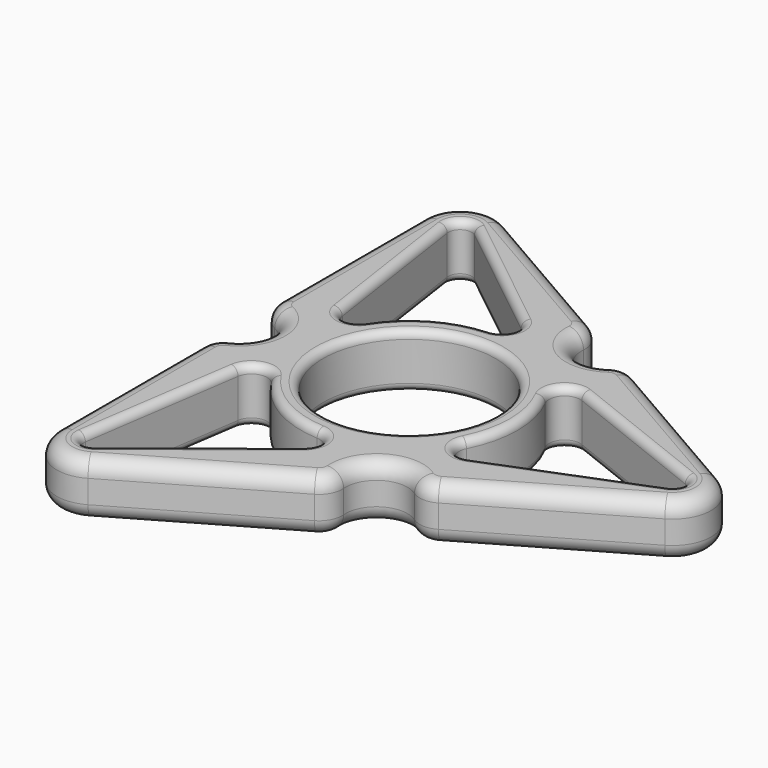
from build123d import *

# Parameters (mm, degrees)
F1_DEPTH = 7
F2_R     = 11.15
F3_DEPTH = 7.001
F6_DEPTH = 7.001
F7_R     = 2
F8_R     = 1
F9_DEPTH = 7.001
F10_R    = 1
F11_R    = 1


with BuildPart() as f1:
    # F0 (on Top) → F1 (new body)
    with BuildSketch(Plane.XY):
        with BuildLine():
            Line((-22, 29.4448637287), (-22, -29.4448637287))
            ThreePointArc((-22, -29.4448637287), (-19.5, -33.7749907476), (-14.5, -33.7749907476))
            Line((-14.5, -33.7749907476), (36.5, -4.3301270189))
            ThreePointArc((36.5, -4.3301270189), (39, 0), (36.5, 4.3301270189))
            Line((36.5, 4.3301270189), (-14.5, 33.7749907476))
            ThreePointArc((-14.5, 33.7749907476), (-19.5, 33.7749907476), (-22, 29.4448637287))
        make_face()
    extrude(amount=F1_DEPTH)

    # F2 (on face) → F3 (cut, through all)
    with BuildSketch(Plane.XY.offset(7)):
        Circle(F2_R)
    extrude(amount=-F3_DEPTH, mode=Mode.SUBTRACT)

    # F5 (on face) → F6 (cut, through all)
    with BuildSketch(Plane.XY.offset(7)):
        with BuildLine():
            ThreePointArc((-22, -6.3245553203), (-21.5354627642, -4.7209878689), (-20.2857142857, -3.6140316116))
            ThreePointArc((-20.2857142857, -3.6140316116), (-18, 0), (-20.2857142857, 3.6140316116))
            ThreePointArc((-20.2857142857, 3.6140316116), (-21.5354627642, 4.7209878689), (-22, 6.3245553203))
            Line((-22, 6.3245553203), (-22, -6.3245553203))
        make_face()
        with BuildLine():
            ThreePointArc((16.4772255751, -15.8902812231), (14.8562268075, -16.2897639016), (13.2727003286, -15.7609280995))
            ThreePointArc((13.2727003286, -15.7609280995), (9, -15.5884572681), (7.0130139571, -19.3749597112))
            ThreePointArc((7.0130139571, -19.3749597112), (6.6792359567, -21.0107517705), (5.5227744249, -22.2148365434))
            Line((5.5227744249, -22.2148365434), (16.4772255751, -15.8902812231))
        make_face()
        with BuildLine():
            ThreePointArc((5.5227744249, 22.2148365434), (6.6792359567, 21.0107517705), (7.0130139571, 19.3749597112))
            ThreePointArc((7.0130139571, 19.3749597112), (9, 15.5884572681), (13.2727003286, 15.7609280995))
            ThreePointArc((13.2727003286, 15.7609280995), (14.8562268075, 16.2897639016), (16.4772255751, 15.8902812231))
            Line((16.4772255751, 15.8902812231), (5.5227744249, 22.2148365434))
        make_face()
    extrude(amount=-F6_DEPTH, mode=Mode.SUBTRACT)

    # F7
    f7_edges = [f1.edges().sort_by_distance(p)[0] for p in [
        (-4.488613, -27.994914, 0),
        (5.522774, -22.214837, 3.5),
        (-4.488613, -27.994914, 7),
        (-14.5, -33.774991, 3.5),
        (6.679236, -21.010752, 7),
        (6.679236, -21.010752, 0),
        (7.013014, -19.37496, 3.5),
        (9, -15.588457, 7),
        (9, -15.588457, 0),
        (13.2727, -15.760928, 3.5),
        (14.856227, -16.289764, 7),
        (14.856227, -16.289764, 0),
        (16.477226, -15.890281, 3.5),
        (26.488613, -10.110204, 0),
        (36.5, -4.330127, 3.5),
        (26.488613, -10.110204, 7),
        (36.5, 4.330127, 3.5),
        (39, 0, 0),
        (39, 0, 7),
        (-22, -29.444864, 3.5),
        (-19.5, -33.774991, 0),
        (-19.5, -33.774991, 7),
        (-22, -17.88471, 0),
        (-22, -17.88471, 7),
        (-22, -6.324555, 3.5),
        (-21.535463, -4.720988, 7),
        (-20.285714, -3.614032, 3.5),
        (-21.535463, -4.720988, 0),
        (-18, 0, 7),
        (-20.285714, 3.614032, 3.5),
        (-18, 0, 0),
        (-21.535463, 4.720988, 7),
        (-22, 6.324555, 3.5),
        (-21.535463, 4.720988, 0),
        (-22, 17.88471, 0),
        (-22, 17.88471, 7),
        (-22, 29.444864, 3.5),
        (-14.5, 33.774991, 3.5),
        (-19.5, 33.774991, 0),
        (-19.5, 33.774991, 7),
        (-4.488613, 27.994914, 0),
        (-4.488613, 27.994914, 7),
        (5.522774, 22.214837, 3.5),
        (9, 15.588457, 7),
        (13.2727, 15.760928, 3.5),
        (9, 15.588457, 0),
        (7.013014, 19.37496, 3.5),
        (14.856227, 16.289764, 7),
        (16.477226, 15.890281, 3.5),
        (14.856227, 16.289764, 0),
        (26.488613, 10.110204, 0),
        (26.488613, 10.110204, 7),
        (6.679236, 21.010752, 7),
        (6.679236, 21.010752, 0),
    ]]
    fillet(f7_edges, radius=F7_R)

    # F8
    f8_edges = [f1.edges().sort_by_distance(p)[0] for p in [
        (-11.15, 0, 7),
        (11.15, 0, 3.5),
        (-11.15, 0, 0),
    ]]
    fillet(f8_edges, radius=F8_R)

    # F4 (on face) → F9 (cut, through all)
    with BuildSketch(Plane.XY.offset(7)):
        with BuildLine():
            ThreePointArc((12.4718942095, 6.3601772638), (14, 0), (12.4718942095, -6.3601772638))
            ThreePointArc((12.4718942095, -6.3601772638), (12.7737531616, -8.6141635212), (14.9888874999, -9.1287048104))
            Line((14.9888874999, -9.1287048104), (34.5514705882, -1.3949480959))
            ThreePointArc((34.5514705882, -1.3949480959), (35.5, 0), (34.5514705882, 1.3949480959))
            Line((34.5514705882, 1.3949480959), (14.9888874999, 9.1287048104))
            ThreePointArc((14.9888874999, 9.1287048104), (12.7737531616, 8.6141635212), (12.4718942095, 6.3601772638))
        make_face()
        with BuildLine():
            Line((0.4112465195, 17.5451097546), (-16.0676748061, 30.6199253155))
            ThreePointArc((-16.0676748061, 30.6199253155), (-17.75, 30.7439018343), (-18.4837957821, 29.2249772196))
            Line((-18.4837957821, 29.2249772196), (-15.4001340194, 8.4164049442))
            ThreePointArc((-15.4001340194, 8.4164049442), (-13.8469610225, 6.755312979), (-11.7440221878, 7.6208885868))
            ThreePointArc((-11.7440221878, 7.6208885868), (-7, 12.124355653), (-0.7278720217, 13.9810658506))
            ThreePointArc((-0.7278720217, 13.9810658506), (1.0732078609, 15.3694765002), (0.4112465195, 17.5451097546))
        make_face()
        with BuildLine():
            Line((-15.4001340194, -8.4164049442), (-18.4837957821, -29.2249772196))
            ThreePointArc((-18.4837957821, -29.2249772196), (-17.75, -30.7439018343), (-16.0676748061, -30.6199253155))
            Line((-16.0676748061, -30.6199253155), (0.4112465195, -17.5451097546))
            ThreePointArc((0.4112465195, -17.5451097546), (1.0732078609, -15.3694765002), (-0.7278720217, -13.9810658506))
            ThreePointArc((-0.7278720217, -13.9810658506), (-7, -12.124355653), (-11.7440221878, -7.6208885868))
            ThreePointArc((-11.7440221878, -7.6208885868), (-13.8469610225, -6.755312979), (-15.4001340194, -8.4164049442))
        make_face()
    extrude(amount=-F9_DEPTH, mode=Mode.SUBTRACT)

    # F10
    f10_edges = [f1.edges().sort_by_distance(p)[0] for p in [
        (-17.75, 30.743902, 7),
        (-18.483796, 29.224977, 3.5),
        (-17.75, 30.743902, 0),
        (-16.067675, 30.619925, 3.5),
        (-7.828214, 24.082518, 7),
        (-7.828214, 24.082518, 0),
        (0.411247, 17.54511, 3.5),
        (-16.941965, 18.820691, 7),
        (-15.400134, 8.416405, 3.5),
        (-16.941965, 18.820691, 0),
        (-13.846961, 6.755313, 7),
        (-11.744022, 7.620889, 3.5),
        (-13.846961, 6.755313, 0),
        (-7, 12.124356, 7),
        (-0.727872, 13.981066, 3.5),
        (-7, 12.124356, 0),
        (1.073208, 15.369477, 7),
        (1.073208, 15.369477, 0),
    ]]
    fillet(f10_edges, radius=F10_R)

    # F11
    f11_edges = [f1.edges().sort_by_distance(p)[0] for p in [
        (-17.75, -30.743902, 7),
        (-16.067675, -30.619925, 3.5),
        (-17.75, -30.743902, 0),
        (-18.483796, -29.224977, 3.5),
        (-7.828214, -24.082518, 7),
        (0.411247, -17.54511, 3.5),
        (-7.828214, -24.082518, 0),
        (-16.941965, -18.820691, 7),
        (-16.941965, -18.820691, 0),
        (-15.400134, -8.416405, 3.5),
        (-13.846961, -6.755313, 7),
        (-13.846961, -6.755313, 0),
        (-11.744022, -7.620889, 3.5),
        (12.773753, -8.614164, 7),
        (14.988887, -9.128705, 3.5),
        (12.773753, -8.614164, 0),
        (12.471894, -6.360177, 3.5),
        (14, 0, 7),
        (14, 0, 0),
        (12.471894, 6.360177, 3.5),
        (12.773753, 8.614164, 7),
        (12.773753, 8.614164, 0),
        (14.988887, 9.128705, 3.5),
        (1.073208, -15.369477, 7),
        (-0.727872, -13.981066, 3.5),
        (1.073208, -15.369477, 0),
        (-7, -12.124356, 7),
        (-7, -12.124356, 0),
        (24.770179, 5.261826, 7),
        (24.770179, 5.261826, 0),
        (34.551471, 1.394948, 3.5),
        (35.5, 0, 7),
        (35.5, 0, 0),
        (34.551471, -1.394948, 3.5),
        (24.770179, -5.261826, 7),
        (24.770179, -5.261826, 0),
    ]]
    fillet(f11_edges, radius=F11_R)


solid = f1.part
